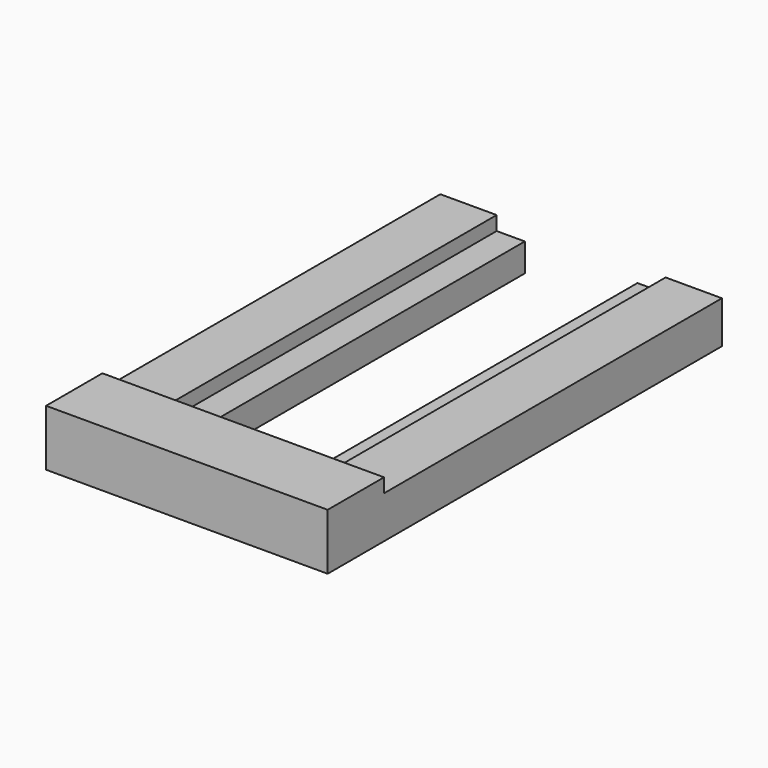
from build123d import *

# Parameters (mm, degrees)
F1_DEPTH = 4
F0_W     = 2
F0_H     = 30
F2_DEPTH = 2
F0_W_2   = 4
F3_DEPTH = 3


with BuildPart() as f1:
    # F0 (on Top) → F1 (new body)
    with BuildSketch(Plane.XY):
        Polygon((-6, 5), (-10, 5), (-10, 0), (10, 0), (10, 5), (6, 5), (4, 5), (-4, 5), align=None)
    extrude(amount=F1_DEPTH)

    # F0 (on Top) → F2 (join)
    with BuildSketch(Plane.XY):
        with Locations((-5, 20)):
            Rectangle(F0_W, F0_H)
        with Locations((5, 20)):
            Rectangle(F0_W, F0_H)
    extrude(amount=F2_DEPTH)

    # F0 (on Top) → F3 (join)
    with BuildSketch(Plane.XY):
        with Locations((8, 20)):
            Rectangle(F0_W_2, F0_H)
        with Locations((-8, 20)):
            Rectangle(F0_W_2, F0_H)
    extrude(amount=F3_DEPTH)


solid = f1.part
